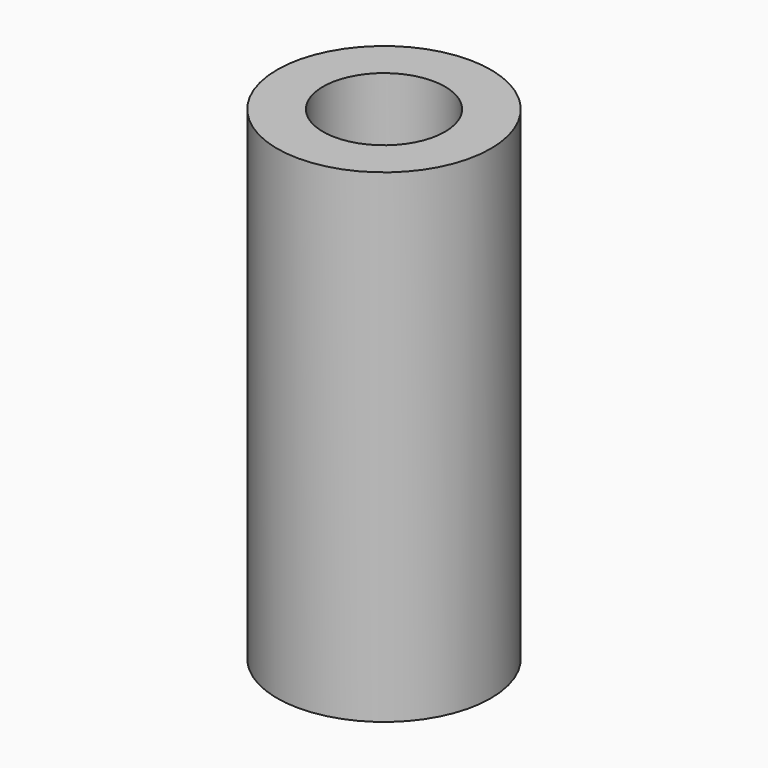
from build123d import *

# Parameters (mm, degrees)
F0_R     = 3.5
F1_DEPTH = 7.85
F2_R     = 3.5
F2_R_2   = 2
F3_DEPTH = 8


with BuildPart() as f1:
    # F0 (on Top) → F1 (new body)
    with BuildSketch(Plane.XY):
        Circle(F0_R)
        with BuildLine():
            ThreePointArc((1.875, 1.801215), (2.411949, 0.970824), (2.6, 0))
            ThreePointArc((2.6, 0), (2.411949, -0.970824), (1.875, -1.801215))
            ThreePointArc((1.875, -1.801215), (0, -2.6), (-1.875, -1.801215))
            ThreePointArc((-1.875, -1.801215), (-2.6, 0), (-1.875, 1.801215))
            ThreePointArc((-1.875, 1.801215), (0, 2.6), (1.875, 1.801215))
        make_face(mode=Mode.SUBTRACT)
        with BuildLine():
            ThreePointArc((1.875, -1.801215), (2.411949, -0.970824), (2.6, 0))
            ThreePointArc((2.6, 0), (2.411949, 0.970824), (1.875, 1.801215))
            Line((1.875, 1.801215), (1.875, -1.801215))
        make_face()
        with BuildLine():
            Line((-1.875, -1.801215), (-1.875, 1.801215))
            ThreePointArc((-1.875, 1.801215), (-2.6, 0), (-1.875, -1.801215))
        make_face()
    extrude(amount=F1_DEPTH)

    # F2 (on face) → F3 (join)
    with BuildSketch(Plane.XY.offset(7.85)):
        Circle(F2_R)
        Circle(F2_R_2, mode=Mode.SUBTRACT)
    extrude(amount=F3_DEPTH)


solid = f1.part
